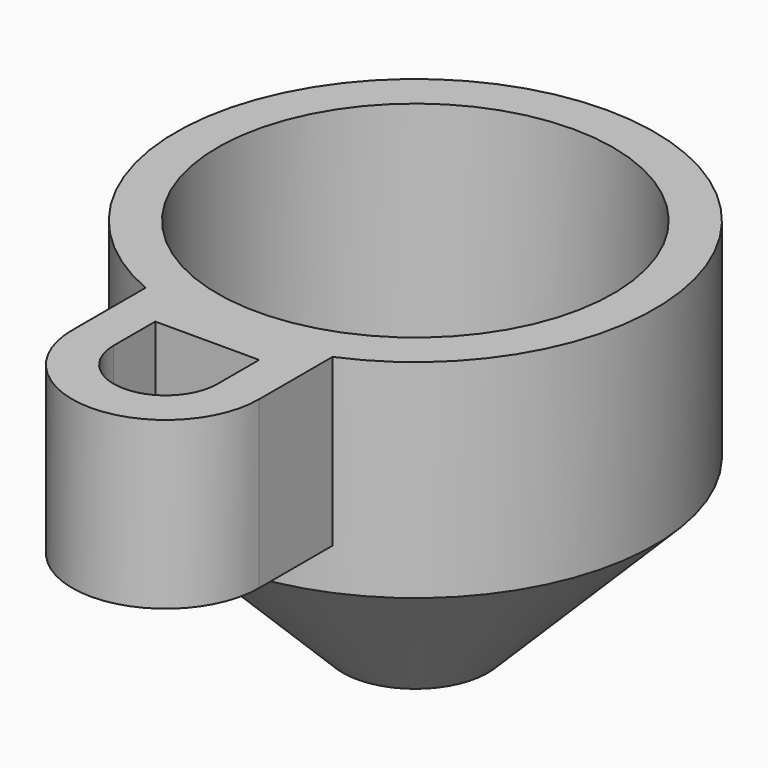
from build123d import *

# Parameters (mm, degrees)
F3_DEPTH = 8


with BuildPart() as f1:
    # F0 (on Right) → F1 (revolve)
    with BuildSketch(Plane.YZ):
        Polygon((9.525, 18.025), (9.525, 8.025), (1.5, 0), (3.5, 0), (11.525, 8.025), (11.525, 18.025), align=None)
    revolve(axis=Axis((0, 0, 10.187358), (0, 0, 1)))

    # F2 (on face) → F3 (join)
    with BuildSketch(Plane.XY.offset(18.025)):
        with BuildLine():
            ThreePointArc((4.5, -10.610166), (0, -11.525), (-4.5, -10.610166))
            Line((-4.5, -10.610166), (-4.5, -15.025))
            ThreePointArc((-4.5, -15.025), (0, -19.525), (4.5, -15.025))
            Line((4.5, -15.025), (4.5, -10.610166))
        make_face()
        with BuildLine():
            Line((-2.5, -15.025), (-2.5, -12.525))
            Line((-2.5, -12.525), (2.5, -12.525))
            Line((2.5, -12.525), (2.5, -15.025))
            ThreePointArc((2.5, -15.025), (0, -17.525), (-2.5, -15.025))
        make_face(mode=Mode.SUBTRACT)
    extrude(amount=-F3_DEPTH)


solid = f1.part
